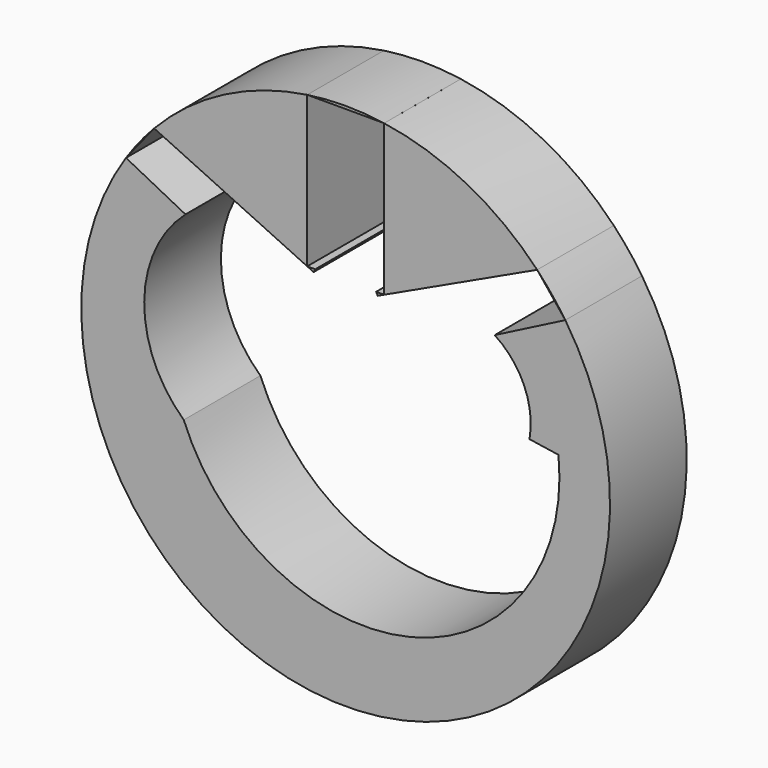
from build123d import *

# Parameters (mm, degrees)
F0_R      = 35.0328415464
F1_DEPTH  = 12.7
F3_DEPTH  = 25.4
F4_R      = 16.5906527708
F5_DEPTH  = 25.4
F7_DEPTH  = 25.4
F8_R      = 10.484641789
F9_DEPTH  = 25.4
F10_W     = 10.1928190628
F10_H     = 20.0091665545
F11_DEPTH = 25.4
F12_R     = 4.6893392764
F13_DEPTH = 25.4


with BuildPart() as f1:
    # F0 (on Front) → F1 (new body)
    with BuildSketch(Plane.XZ):
        Circle(F0_R)
    extrude(amount=F1_DEPTH)

    # F2 (on face) → F3 (cut)
    with BuildSketch(Plane.XZ.offset(12.7)):
        Polygon((0, 12.2620686889), (-25.3742998027, 24.1546040402), (-29.1055077913, 19.4979333015), (0, 4.5982757583), (29.1055077913, 19.4979333015), (25.3742998027, 24.1546040402), align=None)
    extrude(amount=-F3_DEPTH, mode=Mode.SUBTRACT)

    # F4 (on face) → F5 (cut)
    with BuildSketch(Plane.XZ.offset(12.7)):
        with Locations((0, -6.4375866205)):
            Circle(F4_R)
    extrude(amount=-F5_DEPTH, mode=Mode.SUBTRACT)

    # F6 (on face) → F7 (cut)
    with BuildSketch(Plane.XZ.offset(12.7)):
        with BuildLine():
            ThreePointArc((28.2027572393, 3.492135188), (3.2037443687, 8.3000973488), (-21.2247442943, 15.4636220596))
            ThreePointArc((-21.2247442943, 15.4636220596), (-26.6933052067, 3.492135188), (-21.4586202055, -8.5834488273))
            ThreePointArc((-21.4586202055, -8.5834488273), (8.6232728479, -24.1414686654), (28.2027572393, 3.492135188))
        make_face()
    extrude(amount=-F7_DEPTH, mode=Mode.SUBTRACT)

    # F8 (on face) → F9 (cut)
    with BuildSketch(Plane.XZ.offset(12.7)):
        with Locations((14.038223219, 5.912768994)):
            Circle(F8_R)
    extrude(amount=-F9_DEPTH, mode=Mode.SUBTRACT)

    # F10 (on face) → F11 (cut)
    with BuildSketch(Plane.XZ.offset(12.7)):
        with Locations((0.0009835802, 24.65571997)):
            Rectangle(F10_W, F10_H)
    extrude(amount=-F11_DEPTH, mode=Mode.SUBTRACT)

    # F12 (on face) → F13 (cut)
    with BuildSketch(Plane.XZ.offset(12.7)):
        with Locations((0, 12.2620686889)):
            Circle(F12_R)
    extrude(amount=-F13_DEPTH, mode=Mode.SUBTRACT)


solid = f1.part
